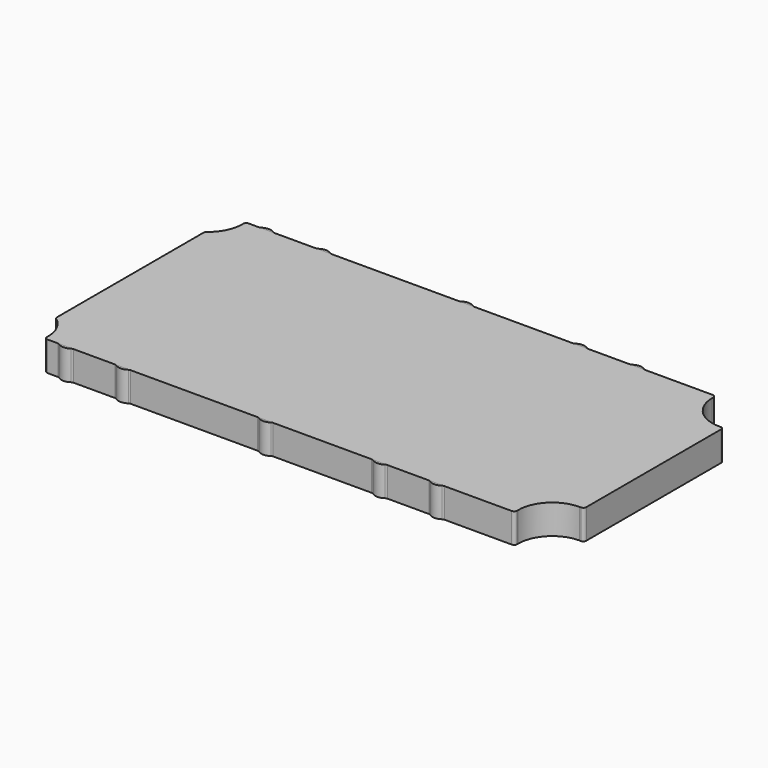
from build123d import *

# Parameters (mm, degrees)
PAD_DEPTH    = 10
FILLET_R     = 1
PAD001_DEPTH = 10
FILLET001_R  = 1


with BuildPart() as body:
    # Sketch → Pad (new body)
    with BuildSketch(Plane.XY):
        with BuildLine():
            ThreePointArc((79.5, 41), (82.868272, 32.868272), (91, 29.5))
            Line((91, 29.5), (92.5, 29.5))
            Line((92.5, 29.5), (92.5, -29.5))
            Line((91, -29.5), (92.5, -29.5))
            ThreePointArc((91, -29.5), (82.868272, -32.868272), (79.5, -41))
            Line((79.5, -41), (79.5, -42.5))
            Line((79.5, -42.5), (55.361373, -42.5))
            ThreePointArc((50.788627, -42.5), (53.075, -43.35), (55.361373, -42.5))
            Line((50.788627, -42.5), (36.061373, -42.5))
            ThreePointArc((31.488627, -42.5), (33.775, -43.35), (36.061373, -42.5))
            Line((31.488627, -42.5), (-2.538627, -42.5))
            ThreePointArc((-7.111373, -42.5), (-4.825, -43.35), (-2.538627, -42.5))
            Line((-7.111373, -42.5), (-50.788627, -42.5))
            ThreePointArc((-55.361373, -42.5), (-53.075, -43.35), (-50.788627, -42.5))
            Line((-55.361373, -42.5), (-70.088627, -42.5))
            ThreePointArc((-74.661373, -42.5), (-72.375, -43.35), (-70.088627, -42.5))
            Line((-79.5, -42.5), (-74.661373, -42.5))
            Line((-79.5, -41), (-79.5, -42.5))
            ThreePointArc((-79.5, -41), (-80.826505, -35.638097), (-84.5, -31.513167))
            Line((-84.5, 31.513167), (-84.5, -31.513167))
            ThreePointArc((-84.5, 31.513167), (-80.826505, 35.638097), (-79.5, 41))
            Line((-79.5, 41), (-79.5, 42.5))
            Line((-79.5, 42.5), (-74.661373, 42.5))
            ThreePointArc((-70.088627, 42.5), (-72.375, 43.35), (-74.661373, 42.5))
            Line((-70.088627, 42.5), (-55.361373, 42.5))
            ThreePointArc((-50.788627, 42.5), (-53.075, 43.35), (-55.361373, 42.5))
            Line((-50.788627, 42.5), (-7.111373, 42.5))
            ThreePointArc((-2.538627, 42.5), (-4.825, 43.35), (-7.111373, 42.5))
            Line((-2.538627, 42.5), (31.488627, 42.5))
            ThreePointArc((36.061373, 42.5), (33.775, 43.35), (31.488627, 42.5))
            Line((36.061373, 42.5), (50.788627, 42.5))
            ThreePointArc((55.361373, 42.5), (53.075, 43.35), (50.788627, 42.5))
            Line((55.361373, 42.5), (79.5, 42.5))
            Line((79.5, 42.5), (79.5, 41))
        make_face()
    extrude(amount=PAD_DEPTH)

    # Fillet
    fillet_edges = [body.edges().sort_by_distance(p)[0] for p in [
        (-84.5, -31.513167, 5),
        (-79.5, -42.5, 5),
        (79.5, -42.5, 5),
        (92.5, -29.5, 5),
        (-84.5, 31.513167, 5),
        (-79.5, 42.5, 5),
        (79.5, 42.5, 5),
        (92.5, 29.5, 5),
        (-74.661373, 42.5, 5),
        (-70.088627, 42.5, 5),
        (-55.361373, 42.5, 5),
        (-50.788627, 42.5, 5),
        (-7.111373, 42.5, 5),
        (-2.538627, 42.5, 5),
        (31.488627, 42.5, 5),
        (36.061373, 42.5, 5),
        (50.788627, 42.5, 5),
        (55.361373, 42.5, 5),
        (-74.661373, -42.5, 5),
        (-70.088627, -42.5, 5),
        (-55.361373, -42.5, 5),
        (-50.788627, -42.5, 5),
        (-7.111373, -42.5, 5),
        (-2.538627, -42.5, 5),
        (31.488627, -42.5, 5),
        (36.061373, -42.5, 5),
        (50.788627, -42.5, 5),
        (55.361373, -42.5, 5),
    ]]
    fillet(fillet_edges, radius=FILLET_R)


with BuildPart() as body001:
    # Sketch001 → Pad001 (new body)
    with BuildSketch(Plane.XY):
        with BuildLine():
            ThreePointArc((79.5, 41), (82.868272, 32.868272), (91, 29.5))
            Line((91, 29.5), (92.5, 29.5))
            Line((92.5, 29.5), (92.5, -29.5))
            Line((91, -29.5), (92.5, -29.5))
            ThreePointArc((91, -29.5), (82.868272, -32.868272), (79.5, -41))
            Line((79.5, -41), (79.5, -42.5))
            Line((79.5, -42.5), (-79.5, -42.5))
            Line((-79.5, -41), (-79.5, -42.5))
            ThreePointArc((-79.5, -41), (-80.826505, -35.638097), (-84.5, -31.513167))
            Line((-84.5, 31.513167), (-84.5, -31.513167))
            ThreePointArc((-84.5, 31.513167), (-80.826505, 35.638097), (-79.5, 41))
            Line((-79.5, 41), (-79.5, 42.5))
            Line((-79.5, 42.5), (79.5, 42.5))
            Line((79.5, 42.5), (79.5, 41))
        make_face()
    extrude(amount=PAD001_DEPTH)

    # Fillet001
    fillet001_edges = [body001.edges().sort_by_distance(p)[0] for p in [
        (-84.5, -31.513167, 5),
        (-79.5, -42.5, 5),
        (79.5, -42.5, 5),
        (92.5, -29.5, 5),
        (-84.5, 31.513167, 5),
        (-79.5, 42.5, 5),
        (79.5, 42.5, 5),
        (92.5, 29.5, 5),
    ]]
    fillet(fillet001_edges, radius=FILLET001_R)


solid = Compound([body.part, body001.part])
